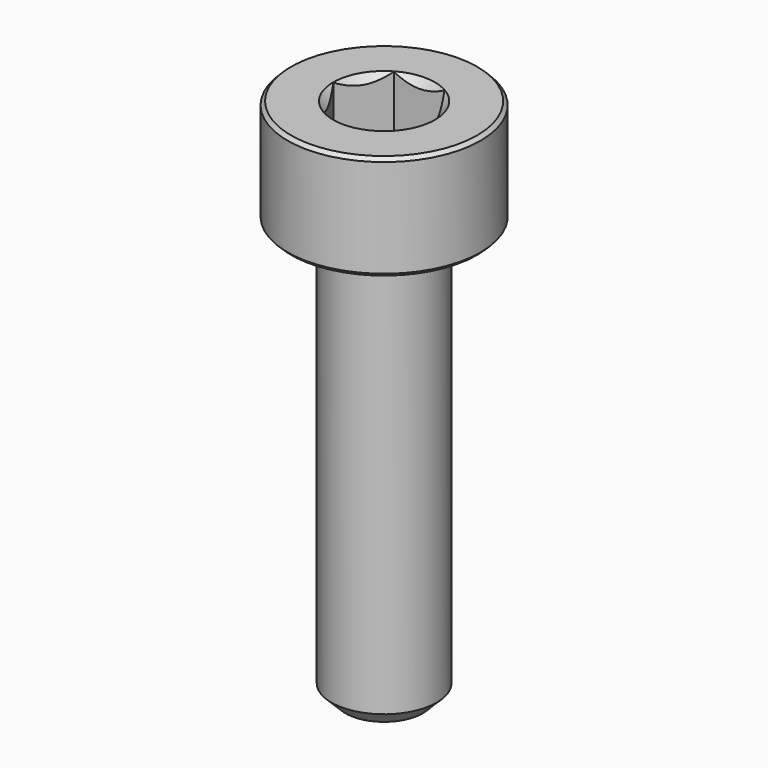
from build123d import *

# Parameters (mm, degrees)
SKETCH002_R     = 3.75
POCKET_DEPTH    = 9.70192
CHAMFER_SIZE    = 0.4
CHAMFER001_SIZE = 0.1


with BuildPart() as pocket:
    # Sketch003 → Revolution001 (revolve)
    with BuildSketch(Plane.XZ):
        Polygon((0, 0.29908), (2.75, 1.3), (2.75, 10), (0, 10), align=None)
    revolve(axis=Axis((0, 0, 0), (0, 0, 1)))

    # Sketch002 (on Face3 of Revolution001) → Pocket (cut, through all)
    with BuildSketch(Plane(origin=(0, 0, 10), x_dir=(-1, 0, 0), z_dir=(0, 0, 1))):
        Circle(SKETCH002_R)
        Polygon((-0.721688, 1.25), (0.721688, 1.25), (1.443376, 0), (0.721688, -1.25), (-0.721688, -1.25), (-1.443376, 0), align=None, mode=Mode.SUBTRACT)
    extrude(amount=-POCKET_DEPTH, mode=Mode.SUBTRACT)


with BuildPart() as chamfer001:
    # Sketch001 → Revolution (revolve)
    with BuildSketch(Plane.XZ):
        Polygon((1.45, 3), (2.75, 3), (2.75, 0), (1.5, 0), (1.5, -12), (0, -12), (0, 1.549999), align=None)
    revolve(axis=Axis((0, 0, 0), (0, 0, 1)))

    # Cut001: cut Pocket
    add(pocket.part, mode=Mode.SUBTRACT)

    # Chamfer
    chamfer_edges = [chamfer001.edges().sort_by_distance(p)[0] for p in [
        (-1.5, 0, -12),
    ]]
    chamfer(chamfer_edges, length=CHAMFER_SIZE)

    # Chamfer001
    chamfer001_edges = [chamfer001.edges().sort_by_distance(p)[0] for p in [
        (-2.75, 0, 0),
        (-2.75, 0, 3),
    ]]
    chamfer(chamfer001_edges, length=CHAMFER001_SIZE)


solid = chamfer001.part
